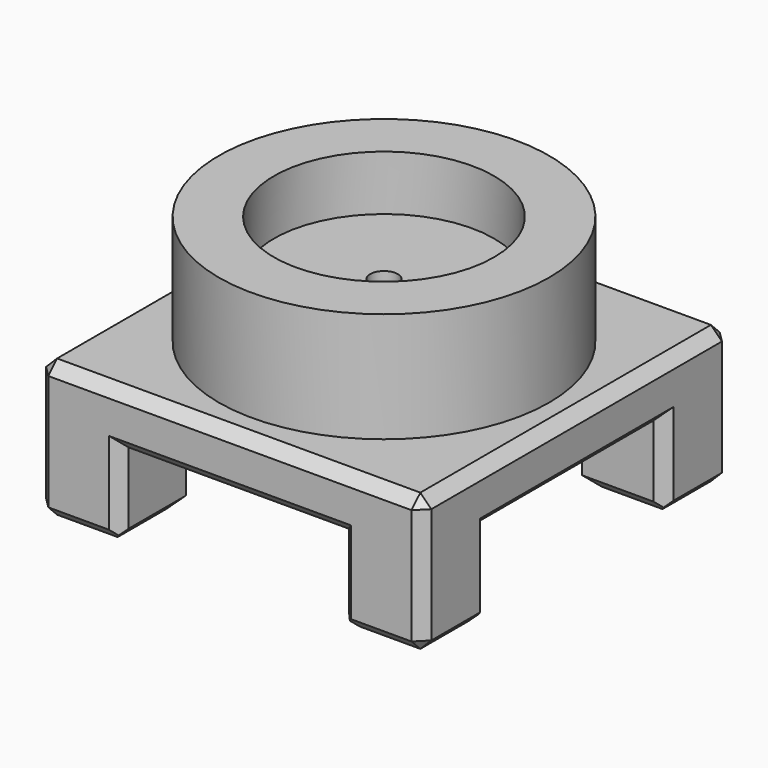
from build123d import *

# Parameters (mm, degrees)
F0_R      = 76.2
F1_DEPTH  = 25.4
F2_R      = 76.2
F2_R_2    = 50.8
F3_DEPTH  = 25.4
F4_R      = 6.35
F5_DEPTH  = 162.814
F6_W      = 177.8
F6_H      = 177.8
F7_DEPTH  = 25.4
F8_R      = 6.35
F9_DEPTH  = 67.818
F10_W     = 38.1
F10_H     = 38.1
F11_DEPTH = 38.1
F12_SIZE  = 5.08
F13_SIZE  = 5.08


with BuildPart() as f1:
    # F0 (on Top) → F1 (new body)
    with BuildSketch(Plane.XY):
        Circle(F0_R)
    extrude(amount=F1_DEPTH)

    # F2 (on face) → F3 (join)
    with BuildSketch(Plane.XY.offset(25.4)):
        Circle(F2_R)
        Circle(F2_R_2, mode=Mode.SUBTRACT)
    extrude(amount=F3_DEPTH)

    # F4 (on face) → F5 (cut)
    with BuildSketch(Plane.XY.offset(25.4)):
        Circle(F4_R)
    extrude(amount=-F5_DEPTH, mode=Mode.SUBTRACT)

    # F6 (on face) → F7 (join)
    with BuildSketch(Plane(origin=(0, 0, 0), x_dir=(1, 0, 0), z_dir=(0, 0, -1))):
        Rectangle(F6_W, F6_H)
    extrude(amount=F7_DEPTH)

    # F8 (on face) → F9 (cut)
    with BuildSketch(Plane(origin=(0, 0, -25.4), x_dir=(1, 0, 0), z_dir=(0, 0, -1))):
        Circle(F8_R)
    extrude(amount=-F9_DEPTH, mode=Mode.SUBTRACT)

    # F10 (on face) → F11 (join)
    with BuildSketch(Plane(origin=(0, 0, -25.4), x_dir=(1, 0, 0), z_dir=(0, 0, -1))):
        with Locations((-69.85, 69.85)):
            Rectangle(F10_W, F10_H)
        with Locations((-69.85, -69.85)):
            Rectangle(F10_W, F10_H)
        with Locations((69.85, 69.85)):
            Rectangle(F10_W, F10_H)
        with Locations((69.85, -69.85)):
            Rectangle(F10_W, F10_H)
    extrude(amount=F11_DEPTH)

    # F12
    f12_edges = [f1.edges().sort_by_distance(p)[0] for p in [
        (0, -88.9, 0),
        (-88.9, 0, 0),
        (88.9, 0, 0),
        (0, 88.9, 0),
        (88.9, -88.9, -31.75),
        (69.85, -88.9, -63.5),
        (50.8, -88.9, -44.45),
        (0, -88.9, -25.4),
        (-50.8, -88.9, -44.45),
        (-69.85, -88.9, -63.5),
        (-88.9, -88.9, -31.75),
        (-88.9, -69.85, -63.5),
        (-88.9, -50.8, -44.45),
        (-88.9, 0, -25.4),
        (-88.9, 50.8, -44.45),
        (-88.9, 69.85, -63.5),
        (-88.9, 88.9, -31.75),
        (-69.85, 88.9, -63.5),
        (-50.8, 88.9, -44.45),
        (0, 88.9, -25.4),
        (50.8, 88.9, -44.45),
        (69.85, 88.9, -63.5),
        (88.9, 88.9, -31.75),
        (88.9, 69.85, -63.5),
        (88.9, 50.8, -44.45),
        (88.9, 0, -25.4),
        (88.9, -50.8, -44.45),
        (88.9, -69.85, -63.5),
    ]]
    chamfer(f12_edges, length=F12_SIZE)

    # F13
    f13_edges = [f1.edges().sort_by_distance(p)[0] for p in [
        (-50.8, -67.31, -63.5),
        (-67.31, -50.8, -63.5),
        (50.8, -67.31, -63.5),
        (67.31, -50.8, -63.5),
        (-67.31, 50.8, -63.5),
        (-50.8, 67.31, -63.5),
        (67.31, 50.8, -63.5),
        (50.8, 67.31, -63.5),
    ]]
    chamfer(f13_edges, length=F13_SIZE)


solid = f1.part
